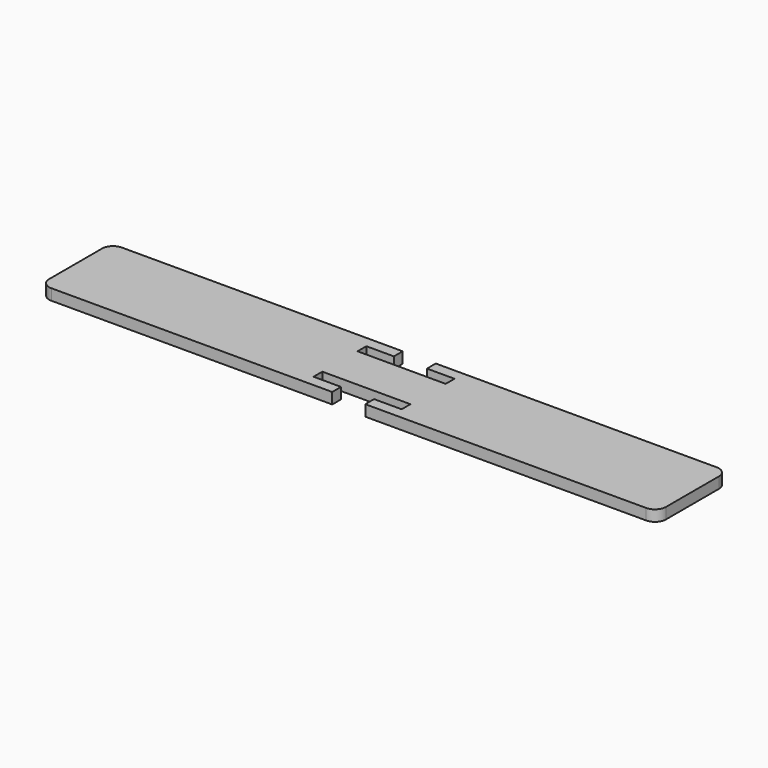
from build123d import *

# Parameters (mm, degrees)
F0_W     = 15.875
F0_H     = 6.35
F1_DEPTH = 6.35


with BuildPart() as f1:
    # F0 (on Top) → F1 (new body)
    with BuildSketch(Plane.XY):
        with BuildLine():
            Line((15.275773, 12.7), (-130.774227, 12.7))
            ThreePointArc((-130.774227, 12.7), (-135.264355, 10.840128), (-137.124227, 6.35))
            Line((-137.124227, 6.35), (-137.124227, -31.75))
            ThreePointArc((-137.124227, -31.75), (-135.264355, -36.240128), (-130.774227, -38.1))
            Line((-130.774227, -38.1), (15.275773, -38.1))
            Line((15.275773, -38.1), (15.275773, -31.75))
            Line((15.275773, -31.75), (15.275773, -25.4))
            Line((15.275773, -25.4), (66.075773, -25.4))
            Line((66.075773, -25.4), (66.075773, -31.75))
            Line((66.075773, -31.75), (66.075773, -38.1))
            Line((66.075773, -38.1), (212.125773, -38.1))
            ThreePointArc((212.125773, -38.1), (216.615901, -36.240128), (218.475773, -31.75))
            Line((218.475773, -31.75), (218.475773, 6.35))
            ThreePointArc((218.475773, 6.35), (216.615901, 10.840128), (212.125773, 12.7))
            Line((212.125773, 12.7), (66.075773, 12.7))
            Line((66.075773, 12.7), (66.075773, 6.35))
            Line((66.075773, 6.35), (66.075773, 0))
            Line((66.075773, 0), (15.275773, 0))
            Line((15.275773, 0), (15.275773, 6.35))
            Line((15.275773, 6.35), (15.275773, 12.7))
        make_face()
        with Locations((23.213273, 9.525)):
            Rectangle(F0_W, F0_H)
        with Locations((58.138273, 9.525)):
            Rectangle(F0_W, F0_H)
        with Locations((58.138273, -34.925)):
            Rectangle(F0_W, F0_H)
        with Locations((23.213273, -34.925)):
            Rectangle(F0_W, F0_H)
    extrude(amount=F1_DEPTH)


solid = f1.part
